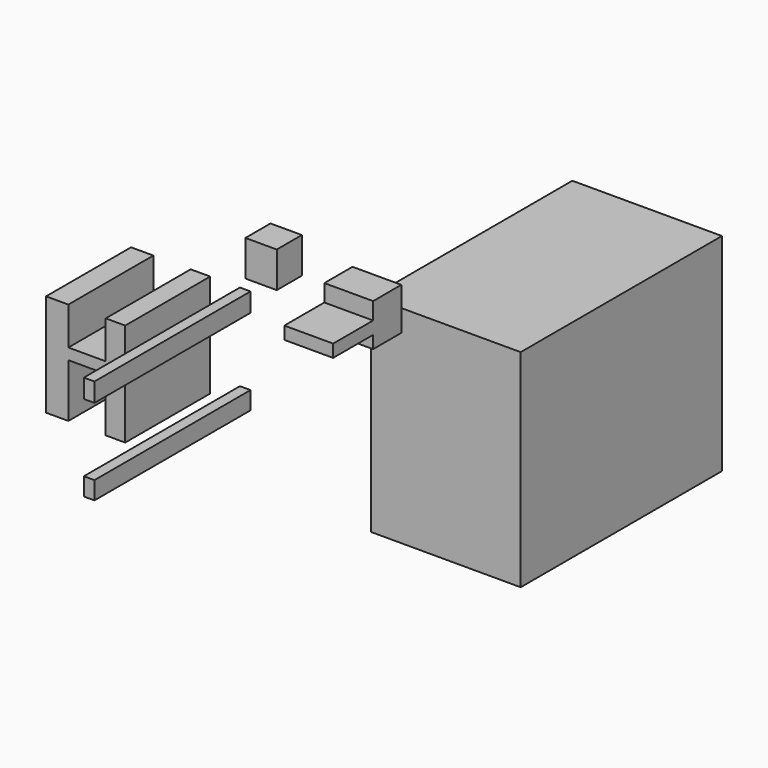
from build123d import *

# Parameters (mm, degrees)
F0_W      = 36.7371924222
F0_H      = 36.7371905595
F1_DEPTH  = 41.91
F3_W      = 18.7610238791
F3_H      = 14.7736519575
F3_W_2    = 9.7653195262
F3_W_3    = 48.7866785843
F4_DEPTH  = 57.15
F5_W      = 294.7466820478
F5_H      = 242.5296194851
F6_DEPTH  = 175.26
F7_W      = 43.7557250261
F7_H      = 13.0614079535
F7_W_2    = 7.1837753057
F7_W_3    = 15.6736895442
F8_DEPTH  = 124.46
F9_W      = 12.4083422124
F9_H      = 22.0909118652
F10_DEPTH = 228.6
F9_H_2    = 20.8982601762


with BuildPart() as f1:
    # F0 (on Top) → F1 (new body)
    with BuildSketch(Plane.XY):
        with Locations((-43.608693406, 35.337745212)):
            Rectangle(F0_W, F0_H)
    extrude(amount=F1_DEPTH)


with BuildPart() as f4:
    # F3 (on face) → F4 (new body)
    with BuildSketch(Plane.YZ):
        Polygon((96.3715314865, 0), (55.0972893834, 0), (55.0972893834, -20.0410559773), (73.8583132625, -20.0410559773), (73.8583132625, -34.8147079349), (55.0972893834, -34.8147079349), (55.0972893834, -49.5837777853), (96.3715314865, -49.5837777853), align=None)
        with Locations((64.4778013229, -27.4278819561)):
            Rectangle(F3_W, F3_H)
        with Locations((50.2146296203, -27.4278819561)):
            Rectangle(F3_W_2, F3_H)
        with Locations((20.9386305651, -27.4278819561)):
            Rectangle(F3_W_3, F3_H)
    extrude(amount=F4_DEPTH)


with BuildPart() as f6:
    # F5 (on Right) → F6 (new body)
    with BuildSketch(Plane.YZ):
        with Locations((270.9584012628, -163.3604522794)):
            Rectangle(F5_W, F5_H)
    extrude(amount=F6_DEPTH)


with BuildPart() as f8:
    # F7 (on Front) → F8 (new body)
    with BuildSketch(Plane.XZ):
        Polygon((-156.2565118074, -44.2953109741), (-156.2565118074, 0), (-182.379335165, 0), (-182.379335165, -120.0514882803), (-156.2565118074, -120.0514882803), (-156.2565118074, -57.3567189276), (-163.4402871132, -57.3567189276), (-163.4402871132, -44.2953109741), align=None)
        with Locations((-134.3786492944, -50.8260149509)):
            Rectangle(F7_W, F7_H)
        with Locations((-159.8483994603, -50.8260149509)):
            Rectangle(F7_W_2, F7_H)
        Polygon((-112.5007867813, 0), (-112.5007867813, -44.2953109741), (-96.8270972371, -44.2953109741), (-96.8270972371, -57.3567189276), (-112.5007867813, -57.3567189276), (-112.5007867813, -120.7045614719), (-89.6433219314, -120.7045614719), (-89.6433219314, 0), align=None)
        with Locations((-104.6639420092, -50.8260149509)):
            Rectangle(F7_W_3, F7_H)
        Polygon((-156.2565118074, -44.2953109741), (-156.2565118074, 0), (-182.379335165, 0), (-182.379335165, -120.0514882803), (-156.2565118074, -120.0514882803), (-156.2565118074, -57.3567189276), (-163.4402871132, -57.3567189276), (-163.4402871132, -44.2953109741), align=None)
    extrude(amount=F8_DEPTH)


with BuildPart() as f10:
    # F9 (on Front) → F10 (new body)
    with BuildSketch(Plane.XZ):
        with Locations((-48.6215297133, -11.0454559326)):
            Rectangle(F9_W, F9_H)
    extrude(amount=F10_DEPTH)


with BuildPart() as f10b:
    # F9 (on Front) → F10, piece 2 (new body)
    with BuildSketch(Plane.XZ):
        with Locations((-48.6215297133, -112.2146435082)):
            Rectangle(F9_W, F9_H_2)
    extrude(amount=F10_DEPTH)


solid = Compound([f1.part, f4.part, f6.part, f8.part, f10.part, f10b.part])
